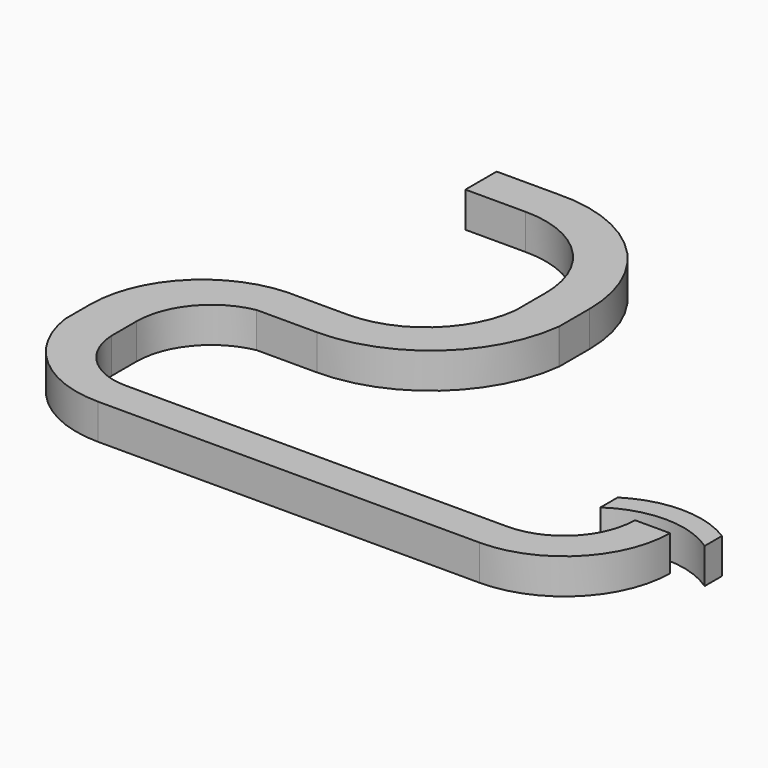
from build123d import *

# Parameters (mm, degrees)
F0_W     = 8.2740507926
F0_H     = 5.5895205587
F0_W_2   = 68.4800110757
F0_H_2   = 6.2283235602
F0_W_3   = 10.7772583142
F0_H_3   = 6.8671256304
F0_H_4   = 7.0104077458
F1_DEPTH = 6.35


with BuildPart() as f1:
    # F0 (on Top) → F1 (new body)
    with BuildSketch(Plane.XY):
        with BuildLine():
            ThreePointArc((0, 42.4803607166), (-13.6907672304, 36.296708565), (-19.2933924403, 22.3580840975))
            Line((-19.2933924403, 22.3580840975), (-11.0193416476, 22.3580840975))
            ThreePointArc((-11.0193416476, 22.3580840975), (-7.9047387189, 30.9767399974), (0, 35.6132350862))
            Line((0, 35.6132350862), (0, 42.4803607166))
        make_face()
        with Locations((-15.1563670439, 19.5633238181)):
            Rectangle(F0_W, F0_H)
        with BuildLine():
            ThreePointArc((-19.2933924403, 16.7685635388), (-12.781037859, 4.7780048728), (0, 0))
            Line((0, 0), (0, 6.2283235602))
            ThreePointArc((0, 6.2283235602), (-7.62434504, 9.2876478078), (-11.0193416476, 16.7685635388))
            Line((-11.0193416476, 16.7685635388), (-19.2933924403, 16.7685635388))
        make_face()
        with Locations((34.2400055379, 3.1141617801)):
            Rectangle(F0_W_2, F0_H_2)
        with Locations((5.3886291571, 39.0467979014)):
            Rectangle(F0_W_3, F0_H_3)
        with BuildLine():
            ThreePointArc((28.3847991377, 58.1422746181), (22.559883668, 46.9624095883), (10.7772583142, 42.4803607166))
            Line((10.7772583142, 42.4803607166), (10.7772583142, 35.6132350862))
            ThreePointArc((10.7772583142, 35.6132350862), (27.7583274267, 42.0563529076), (36.1912153179, 58.1422746181))
            Line((36.1912153179, 58.1422746181), (28.3847991377, 58.1422746181))
        make_face()
        with BuildLine():
            Line((28.3847991377, 64.9896487594), (28.3847991377, 58.1422746181))
            Line((28.3847991377, 58.1422746181), (36.1912153179, 58.1422746181))
            ThreePointArc((36.1912153179, 58.1422746181), (36.2009267231, 58.2237741986), (36.2103767693, 58.3053044975))
            Line((36.2103767693, 58.3053044975), (36.2103767693, 64.9896487594))
            Line((36.2103767693, 64.9896487594), (28.3847991377, 64.9896487594))
        make_face()
        with BuildLine():
            ThreePointArc((10.7772583142, 82.4341624975), (23.2176923218, 77.3825555351), (28.3847991377, 64.9896487594))
            Line((28.3847991377, 64.9896487594), (36.2103767693, 64.9896487594))
            ThreePointArc((36.2103767693, 64.9896487594), (28.6996014024, 82.6311247403), (10.7772583142, 89.4445702434))
            Line((10.7772583142, 89.4445702434), (10.7772583142, 82.4341624975))
        make_face()
        with Locations((5.3886291571, 85.9393663704)):
            Rectangle(F0_W_3, F0_H_4)
        with BuildLine():
            Line((68.4800110757, 6.2283235602), (68.4800110757, 0))
            ThreePointArc((68.4800110757, 0), (81.9103012367, 5.5298030695), (87.5533744693, 18.9128946513))
            Line((87.5533744693, 18.9128946513), (81.252284348, 18.9128946513))
            ThreePointArc((81.252284348, 18.9128946513), (77.4804181263, 9.9382634079), (68.4800110757, 6.2283235602))
        make_face()
    extrude(amount=F1_DEPTH)


with BuildPart() as f1b:
    # F0 (on Top) → F1, piece 2 (new body)
    with BuildSketch(Plane.XY):
        with BuildLine():
            ThreePointArc((75.0481337309, 18.9128946513), (84.4028294086, 21.8217318529), (93.7575250864, 18.9128946513))
            Line((93.7575250864, 18.9128946513), (93.7575250864, 22.7904897183))
            ThreePointArc((93.7575250864, 22.7904897183), (84.4028294086, 25.5081040885), (75.0481337309, 22.7904897183))
            Line((75.0481337309, 22.7904897183), (75.0481337309, 18.9128946513))
        make_face()
    extrude(amount=F1_DEPTH)


solid = Compound([f1.part, f1b.part])
